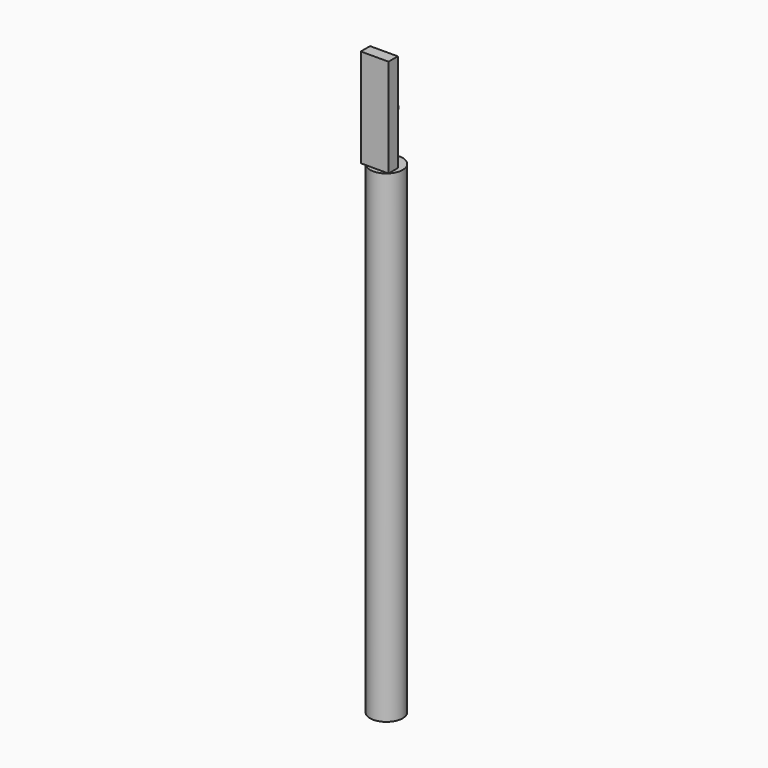
from build123d import *

# Parameters (mm, degrees)
F0_R     = 4.20629
F1_DEPTH = 124.6124
F2_W     = 7.158407
F2_H     = 2.996312
F3_DEPTH = 25.4
F4_R     = 2.036724
F5_DEPTH = 2.54


with BuildPart() as f1:
    # F0 (on Top) → F1 (new body)
    with BuildSketch(Plane.XY):
        Circle(F0_R)
    extrude(amount=F1_DEPTH)

    # F2 (on face) → F3 (join)
    with BuildSketch(Plane.XY.offset(124.6124)):
        with Locations((-0.627087, -1.498156)):
            Rectangle(F2_W, F2_H)
    extrude(amount=F3_DEPTH)

    # F4 (on face) → F5 (join)
    with BuildSketch(Plane(origin=(0, 0, 0), x_dir=(-1, 0, 0), z_dir=(0, 1, 0))):
        with Locations((0.938338, 136.737749)):
            Circle(F4_R)
    extrude(amount=F5_DEPTH)


solid = f1.part
